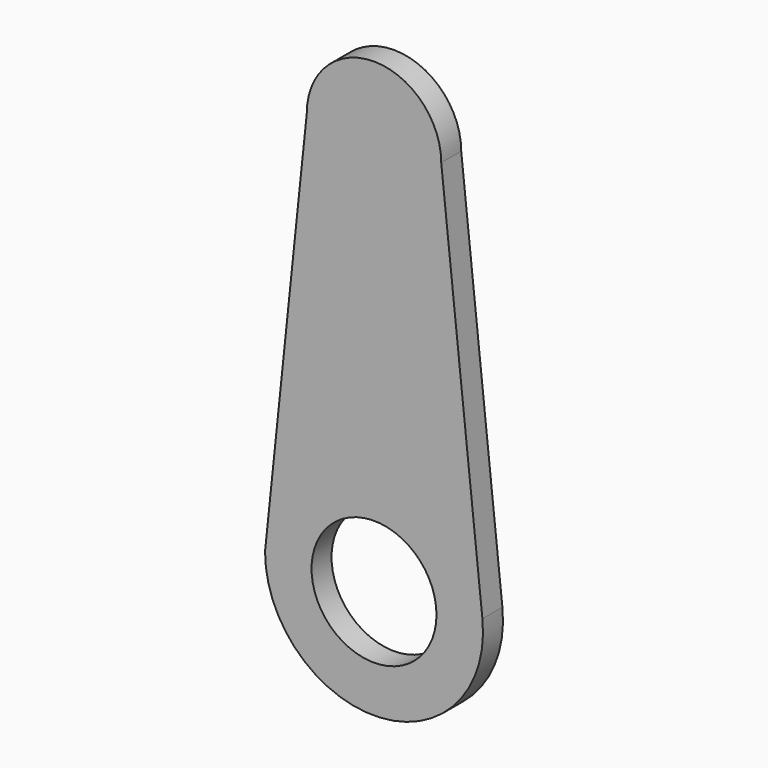
from build123d import *

# Parameters (mm, degrees)
F0_R     = 6.35
F1_DEPTH = 2.54


with BuildPart() as f1:
    # F0 (on Front) → F1 (new body)
    with BuildSketch(Plane.XZ):
        with BuildLine():
            Line((-6.8326, 40.622082), (-10.840268, 2.291895))
            Line((-10.840268, 2.291895), (-11.0799, 0))
            ThreePointArc((-11.0799, 0), (0.585254, -11.064433), (11.018073, 1.168874))
            Line((11.018073, 1.168874), (6.8326, 40.622082))
            ThreePointArc((6.8326, 40.622082), (0, 47.454682), (-6.8326, 40.622082))
        make_face()
        Circle(F0_R, mode=Mode.SUBTRACT)
    extrude(amount=F1_DEPTH)


solid = f1.part
